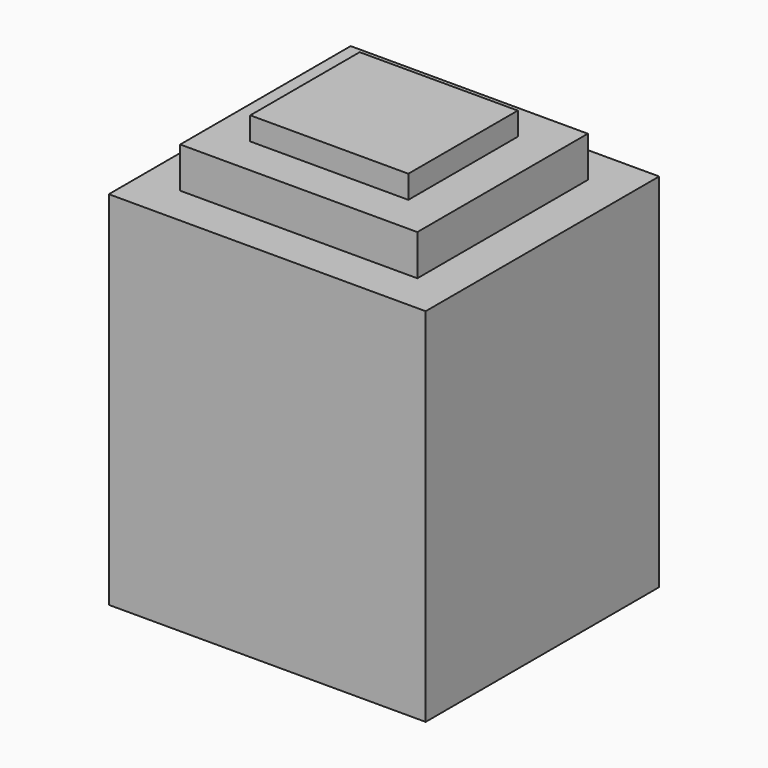
from build123d import *

# Parameters (mm, degrees)
F0_W          = 61.110928
F0_H          = 56.300208
F1_DEPTH      = 37.51986
F1_DEPTH_BACK = 32.21742
F2_W          = 45.738346
F2_H          = 41.101918
F3_DEPTH      = 7.84984
F4_W          = 30.494862
F4_H          = 26.376776
F5_DEPTH      = 4.4368


with BuildPart() as f1:
    # F0 (on Top) → F1 (new body, two sides)
    with BuildSketch(Plane.XY) as f1_sk:
        Rectangle(F0_W, F0_H)
    extrude(amount=F1_DEPTH)
    extrude(f1_sk.sketch, amount=-F1_DEPTH_BACK)

    # F2 (on face) → F3 (join)
    with BuildSketch(Plane.XY.offset(37.51986)):
        Rectangle(F2_W, F2_H)
    extrude(amount=F3_DEPTH)

    # F4 (on face) → F5 (join)
    with BuildSketch(Plane.XY.offset(45.3697)):
        Rectangle(F4_W, F4_H)
    extrude(amount=F5_DEPTH)


solid = f1.part
